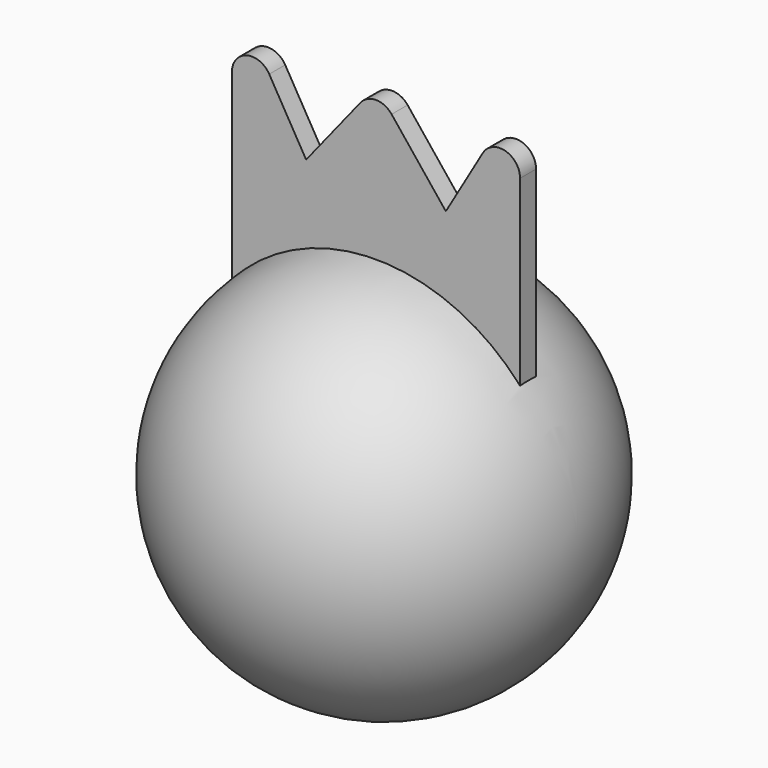
from build123d import *

# Parameters (mm, degrees)
F3_DEPTH = 1.5875
F4_R     = 3.175


with BuildPart() as f1:
    # F0 (on Front) → F1 (revolve)
    with BuildSketch(Plane.XZ):
        with BuildLine():
            ThreePointArc((30.71091, 0), (0, 30.71091), (-30.71091, 0))
            Line((-30.71091, 0), (30.71091, 0))
        make_face()
    revolve(axis=Axis((0, 0, 0), (1, 0, 0)))

    # F2 (on Front) → F3 (join, symmetric)
    with BuildSketch(Plane.XZ):
        Polygon((-22.86, 61.174417), (-22.86, 15.586363), (22.86, 15.586363), (22.86, 61.174417), (11.083637, 40.986363), (0, 54.840911), (-11.083637, 40.986363), align=None)
    extrude(amount=F3_DEPTH, both=True)

    # F4
    f4_edges = [f1.edges().sort_by_distance(p)[0] for p in [
        (-22.86, 0, 61.174417),
        (0, 0, 54.840911),
        (22.86, 0, 61.174417),
    ]]
    fillet(f4_edges, radius=F4_R)


solid = f1.part
